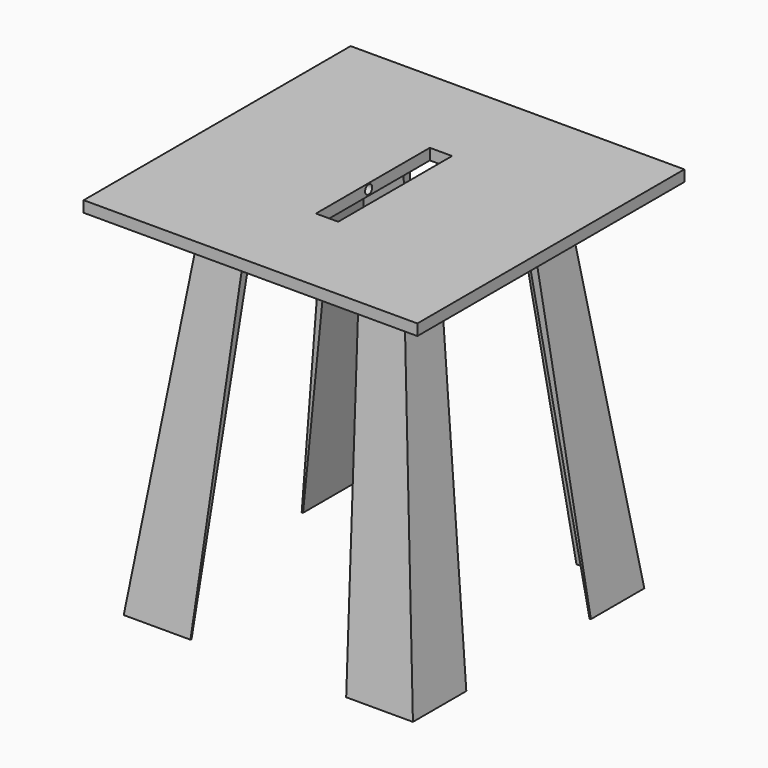
from build123d import *

# Parameters (mm, degrees)
F5_COUNT      = 4
F3_W          = 750
F3_H          = 750
F3_W_2        = 50
F3_H_2        = 320
F3_W_3        = 80
F3_H_3        = 80
F6_DEPTH      = 25
F7_R          = 10
F8_DEPTH      = 25
F8_DEPTH_BACK = 75


with BuildPart() as f4:
    # F3 (on offset) → F4 section 0
    with BuildSketch(Plane.XY.offset(800)):
        Polygon((-125, 205), (-125, 225), (-225, 225), (-225, 125), (-205, 125), (-205, 205), align=None)
    # F1 (on Top) → F4 section 1
    with BuildSketch(Plane.XY):
        Polygon((-325, 325), (-325, 175), (-322, 175), (-322, 322), (-175, 322), (-175, 325), align=None)
    loft()


with BuildPart() as f5_1:
    # F5: instance of F4
    add(f4.part.rotate(Axis((0, 0, 0), (0, 0, 1)), 1 * 360 / F5_COUNT))


with BuildPart() as f5_2:
    # F5: instance of F4
    add(f4.part.rotate(Axis((0, 0, 0), (0, 0, 1)), 2 * 360 / F5_COUNT))


with BuildPart() as f5_3:
    # F5: instance of F4
    add(f4.part.rotate(Axis((0, 0, 0), (0, 0, 1)), 3 * 360 / F5_COUNT))


with BuildPart() as f6:
    # F3 (on offset) → F6 (new body)
    with BuildSketch(Plane.XY.offset(800)):
        Rectangle(F3_W, F3_H)
        Polygon((-125, 225), (225, 225), (225, -225), (-225, -225), (-225, 125), (-225, 225), align=None, mode=Mode.SUBTRACT)
        Polygon((225, -225), (225, 225), (-125, 225), (-125, 205), (-125, 125), (-205, 125), (-225, 125), (-225, -225), align=None)
        Rectangle(F3_W_2, F3_H_2, mode=Mode.SUBTRACT)
        with Locations((-165, 165)):
            Rectangle(F3_W_3, F3_H_3)
        Polygon((-125, 205), (-125, 225), (-225, 225), (-225, 125), (-205, 125), (-205, 205), align=None)
    extrude(amount=F6_DEPTH)

    # F7 (on face) → F8 (cut, two sides)
    with BuildSketch(Plane.YZ.offset(-25)) as f8_sk:
        with Locations((-11.8673816323, 812.5)):
            Circle(F7_R)
    extrude(amount=-F8_DEPTH, mode=Mode.SUBTRACT)
    extrude(f8_sk.sketch, amount=F8_DEPTH_BACK, mode=Mode.SUBTRACT)


solid = Compound([f4.part, f5_1.part, f5_2.part, f5_3.part, f6.part])
